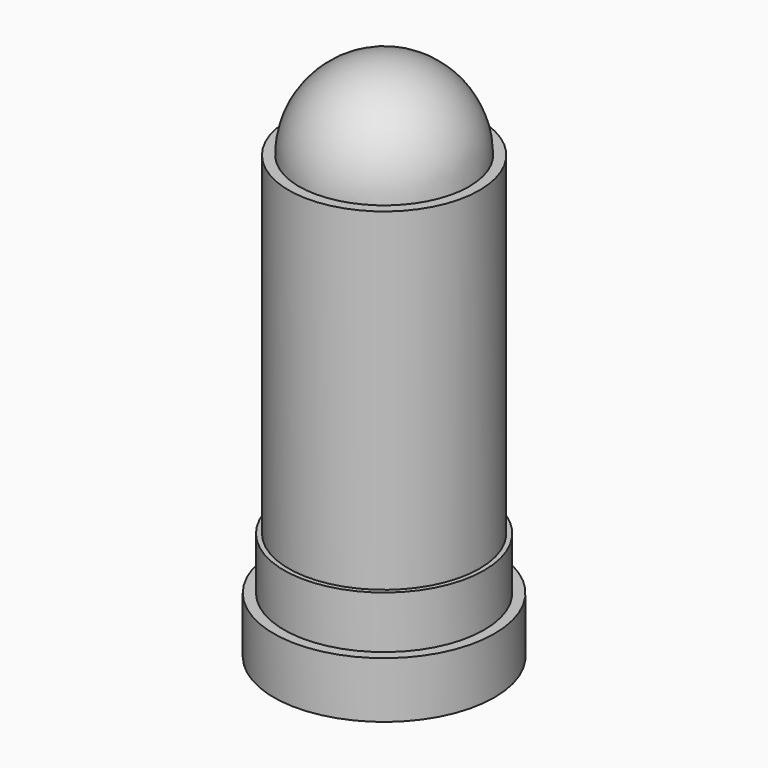
from build123d import *

# Parameters (mm, degrees)
SKETCH_R         = 1.4986
PAD_DEPTH        = 0.762
SKETCH001_R      = 1.3589
PAD001_DEPTH     = 0.7112
SKETCH002_R      = 1.2954
PAD002_DEPTH     = 4.5212
REVOLUTION_ANGLE = -180


with BuildPart() as part:
    # Sketch → Pad (new body)
    with BuildSketch(Plane.XY):
        Circle(SKETCH_R)
    extrude(amount=PAD_DEPTH)

    # Sketch001 (on Face3 of Pad) → Pad001 (join)
    with BuildSketch(Plane.XY.offset(0.762)):
        Circle(SKETCH001_R)
    extrude(amount=PAD001_DEPTH)

    # Sketch002 (on Face5 of Pad001) → Pad002 (join)
    with BuildSketch(Plane.XY.offset(1.4732)):
        Circle(SKETCH002_R)
    extrude(amount=PAD002_DEPTH)

    # Sketch003 (on Face7 of Pad002) → Revolution (revolve)
    with BuildSketch(Plane.XY.offset(5.9944)):
        with BuildLine():
            ThreePointArc((0, -1.1557), (1.1557, 0), (0, 1.1557))
            Line((0, 1.1557), (0, -1.1557))
        make_face()
    revolve(axis=Axis((0, 0, 5.9944), (0, 1, 0)), revolution_arc=REVOLUTION_ANGLE)


solid = part.part
